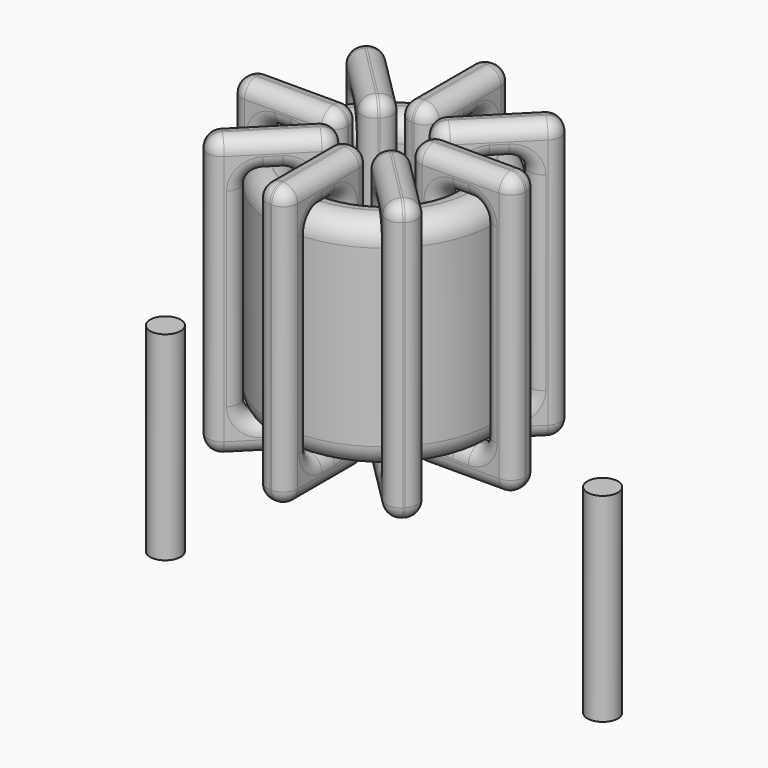
from build123d import *

# Parameters (mm, degrees)
SKETCH001_R       = 0.35
PAD001_DEPTH      = 0.35
PAD001_DEPTH_BACK = 4.2
SKETCH_R          = 2.5385
SKETCH_R_2        = 1.524
PAD_DEPTH         = 5
FILLET_R          = 0.5
SKETCH003_W       = 2.4145
SKETCH003_H       = 6.4
SKETCH003_W_2     = 1.0145
SKETCH003_H_2     = 5
PAD002_DEPTH      = 0.35
FILLET001_R       = 0.329
SKETCH004_W       = 2.4145
SKETCH004_H       = 6.4
SKETCH004_W_2     = 1.0145
SKETCH004_H_2     = 5
PAD003_DEPTH      = 0.35
FILLET002_R       = 0.329
SKETCH005_W       = 2.4145
SKETCH005_H       = 6.4
SKETCH005_W_2     = 1.0145
SKETCH005_H_2     = 5
PAD004_DEPTH      = 0.35
FILLET003_R       = 0.329
SKETCH006_W       = 2.4145
SKETCH006_H       = 6.4
SKETCH006_W_2     = 1.0145
SKETCH006_H_2     = 5
PAD005_DEPTH      = 0.35
FILLET004_R       = 0.329


with BuildPart() as pad001:
    # Sketch001 → Pad001 (new body, two sides)
    with BuildSketch(Plane.XY.offset(0.85)) as pad001_sk:
        Circle(SKETCH001_R)
        with Locations((10, 0)):
            Circle(SKETCH001_R)
    extrude(amount=PAD001_DEPTH)
    extrude(pad001_sk.sketch, amount=-PAD001_DEPTH_BACK)


with BuildPart() as fillet_body:
    # Sketch → Pad (new body)
    with BuildSketch(Plane.XY.offset(1.2)):
        with Locations((5, 0)):
            Circle(SKETCH_R)
        with Locations((5, 0)):
            Circle(SKETCH_R_2, mode=Mode.SUBTRACT)
    extrude(amount=PAD_DEPTH)

    # Fillet
    fillet_edges = [fillet_body.edges().sort_by_distance(p)[0] for p in [
        (3.476, 0, 6.2),
        (2.4615, 0, 6.2),
        (2.4615, 0, 1.2),
    ]]
    fillet(fillet_edges, radius=FILLET_R)


with BuildPart() as fillet001:
    # Sketch003 → Pad002 (new body, symmetric)
    with BuildSketch(Plane(origin=(5, 0, 0), x_dir=(1, 0, 0), z_dir=(0, -1, 0))):
        with Locations((-2.03125, 3.7)):
            Rectangle(SKETCH003_W, SKETCH003_H)
        with Locations((-2.03125, 3.7)):
            Rectangle(SKETCH003_W_2, SKETCH003_H_2, mode=Mode.SUBTRACT)
        with Locations((2.03125, 3.7)):
            Rectangle(SKETCH003_W, SKETCH003_H)
        with Locations((2.03125, 3.7)):
            Rectangle(SKETCH003_W_2, SKETCH003_H_2, mode=Mode.SUBTRACT)
    extrude(amount=PAD002_DEPTH, both=True)

    # Fillet001
    fillet001_edges = [fillet001.edges().sort_by_distance(p)[0] for p in [
        (3.476, 0, 6.2),
        (3.476, 0, 1.2),
        (3.476, 0.35, 3.7),
        (3.476, -0.35, 3.7),
        (1.7615, 0, 6.9),
        (4.176, 0, 6.9),
        (2.96875, 0.35, 6.9),
        (2.96875, -0.35, 6.9),
        (4.176, 0, 0.5),
        (4.176, 0.35, 3.7),
        (4.176, -0.35, 3.7),
        (6.524, 0, 6.2),
        (7.5385, 0, 6.2),
        (7.03125, 0.35, 6.2),
        (7.03125, -0.35, 6.2),
        (7.5385, 0, 1.2),
        (7.5385, 0.35, 3.7),
        (7.5385, -0.35, 3.7),
        (5.824, 0, 6.9),
        (8.2385, 0, 6.9),
        (7.03125, 0.35, 6.9),
        (7.03125, -0.35, 6.9),
        (8.2385, 0, 0.5),
        (8.2385, 0.35, 3.7),
        (8.2385, -0.35, 3.7),
        (2.4615, 0, 6.2),
        (2.96875, 0.35, 6.2),
        (2.96875, -0.35, 6.2),
        (6.524, 0, 1.2),
        (6.524, 0.35, 3.7),
        (6.524, -0.35, 3.7),
        (7.03125, 0.35, 1.2),
        (7.03125, -0.35, 1.2),
        (5.824, 0, 0.5),
        (7.03125, 0.35, 0.5),
        (7.03125, -0.35, 0.5),
        (5.824, 0.35, 3.7),
        (5.824, -0.35, 3.7),
        (1.7615, 0, 0.5),
        (2.96875, 0.35, 0.5),
        (2.96875, -0.35, 0.5),
        (1.7615, 0.35, 3.7),
        (1.7615, -0.35, 3.7),
        (2.4615, 0, 1.2),
        (2.4615, 0.35, 3.7),
        (2.4615, -0.35, 3.7),
        (2.96875, 0.35, 1.2),
        (2.96875, -0.35, 1.2),
    ]]
    fillet(fillet001_edges, radius=FILLET001_R)


with BuildPart() as fillet002:
    # Sketch004 → Pad003 (new body, symmetric)
    with BuildSketch(Plane(origin=(5, 0, 0), x_dir=(0.707107, 0.707107, 0), z_dir=(0.707107, -0.707107, 0))):
        with Locations((-2.03125, 3.7)):
            Rectangle(SKETCH004_W, SKETCH004_H)
        with Locations((-2.03125, 3.7)):
            Rectangle(SKETCH004_W_2, SKETCH004_H_2, mode=Mode.SUBTRACT)
        with Locations((2.03125, 3.7)):
            Rectangle(SKETCH004_W, SKETCH004_H)
        with Locations((2.03125, 3.7)):
            Rectangle(SKETCH004_W_2, SKETCH004_H_2, mode=Mode.SUBTRACT)
    extrude(amount=PAD003_DEPTH, both=True)

    # Fillet002
    fillet002_edges = [fillet002.edges().sort_by_distance(p)[0] for p in [
        (3.922369, -1.077631, 6.2),
        (3.922369, -1.077631, 1.2),
        (3.674882, -0.830143, 3.7),
        (4.169857, -1.325118, 3.7),
        (2.710035, -2.289965, 6.9),
        (4.417344, -0.582656, 6.9),
        (3.316202, -1.188823, 6.9),
        (3.811177, -1.683798, 6.9),
        (4.417344, -0.582656, 0.5),
        (4.169857, -0.335169, 3.7),
        (4.664831, -0.830143, 3.7),
        (6.077631, 1.077631, 6.2),
        (6.794991, 1.794991, 6.2),
        (6.188823, 1.683798, 6.2),
        (6.683798, 1.188823, 6.2),
        (6.794991, 1.794991, 1.2),
        (6.547503, 2.042478, 3.7),
        (7.042478, 1.547503, 3.7),
        (5.582656, 0.582656, 6.9),
        (7.289965, 2.289965, 6.9),
        (6.188823, 1.683798, 6.9),
        (6.683798, 1.188823, 6.9),
        (7.289965, 2.289965, 0.5),
        (7.042478, 2.537453, 3.7),
        (7.537453, 2.042478, 3.7),
        (3.205009, -1.794991, 6.2),
        (3.316202, -1.188823, 6.2),
        (3.811177, -1.683798, 6.2),
        (6.077631, 1.077631, 1.2),
        (5.830143, 1.325118, 3.7),
        (6.325118, 0.830143, 3.7),
        (6.188823, 1.683798, 1.2),
        (6.683798, 1.188823, 1.2),
        (5.582656, 0.582656, 0.5),
        (6.188823, 1.683798, 0.5),
        (6.683798, 1.188823, 0.5),
        (5.335169, 0.830143, 3.7),
        (5.830143, 0.335169, 3.7),
        (2.710035, -2.289965, 0.5),
        (3.316202, -1.188823, 0.5),
        (3.811177, -1.683798, 0.5),
        (2.462547, -2.042478, 3.7),
        (2.957522, -2.537453, 3.7),
        (3.205009, -1.794991, 1.2),
        (2.957522, -1.547503, 3.7),
        (3.452497, -2.042478, 3.7),
        (3.316202, -1.188823, 1.2),
        (3.811177, -1.683798, 1.2),
    ]]
    fillet(fillet002_edges, radius=FILLET002_R)


with BuildPart() as fillet003:
    # Sketch005 → Pad004 (new body, symmetric)
    with BuildSketch(Plane(origin=(5, 0, 0), x_dir=(0.707107, -0.707107, 0), z_dir=(-0.707107, -0.707107, 0))):
        with Locations((-2.03125, 3.7)):
            Rectangle(SKETCH005_W, SKETCH005_H)
        with Locations((-2.03125, 3.7)):
            Rectangle(SKETCH005_W_2, SKETCH005_H_2, mode=Mode.SUBTRACT)
        with Locations((2.03125, 3.7)):
            Rectangle(SKETCH005_W, SKETCH005_H)
        with Locations((2.03125, 3.7)):
            Rectangle(SKETCH005_W_2, SKETCH005_H_2, mode=Mode.SUBTRACT)
    extrude(amount=PAD004_DEPTH, both=True)

    # Fillet003
    fillet003_edges = [fillet003.edges().sort_by_distance(p)[0] for p in [
        (3.922369, 1.077631, 6.2),
        (3.922369, 1.077631, 1.2),
        (4.169857, 1.325118, 3.7),
        (3.674882, 0.830143, 3.7),
        (2.710035, 2.289965, 6.9),
        (4.417344, 0.582656, 6.9),
        (3.811177, 1.683798, 6.9),
        (3.316202, 1.188823, 6.9),
        (4.417344, 0.582656, 0.5),
        (4.664831, 0.830143, 3.7),
        (4.169857, 0.335169, 3.7),
        (6.077631, -1.077631, 6.2),
        (6.794991, -1.794991, 6.2),
        (6.683798, -1.188823, 6.2),
        (6.188823, -1.683798, 6.2),
        (6.794991, -1.794991, 1.2),
        (7.042478, -1.547503, 3.7),
        (6.547503, -2.042478, 3.7),
        (5.582656, -0.582656, 6.9),
        (7.289965, -2.289965, 6.9),
        (6.683798, -1.188823, 6.9),
        (6.188823, -1.683798, 6.9),
        (7.289965, -2.289965, 0.5),
        (7.537453, -2.042478, 3.7),
        (7.042478, -2.537453, 3.7),
        (3.205009, 1.794991, 6.2),
        (3.811177, 1.683798, 6.2),
        (3.316202, 1.188823, 6.2),
        (6.077631, -1.077631, 1.2),
        (6.325118, -0.830143, 3.7),
        (5.830143, -1.325118, 3.7),
        (6.683798, -1.188823, 1.2),
        (6.188823, -1.683798, 1.2),
        (5.582656, -0.582656, 0.5),
        (6.683798, -1.188823, 0.5),
        (6.188823, -1.683798, 0.5),
        (5.830143, -0.335169, 3.7),
        (5.335169, -0.830143, 3.7),
        (2.710035, 2.289965, 0.5),
        (3.811177, 1.683798, 0.5),
        (3.316202, 1.188823, 0.5),
        (2.957522, 2.537453, 3.7),
        (2.462547, 2.042478, 3.7),
        (3.205009, 1.794991, 1.2),
        (3.452497, 2.042478, 3.7),
        (2.957522, 1.547503, 3.7),
        (3.811177, 1.683798, 1.2),
        (3.316202, 1.188823, 1.2),
    ]]
    fillet(fillet003_edges, radius=FILLET003_R)


with BuildPart() as fillet004:
    # Sketch006 → Pad005 (new body, symmetric)
    with BuildSketch(Plane.YZ.offset(5)):
        with Locations((-2.03125, 3.7)):
            Rectangle(SKETCH006_W, SKETCH006_H)
        with Locations((-2.03125, 3.7)):
            Rectangle(SKETCH006_W_2, SKETCH006_H_2, mode=Mode.SUBTRACT)
        with Locations((2.03125, 3.7)):
            Rectangle(SKETCH006_W, SKETCH006_H)
        with Locations((2.03125, 3.7)):
            Rectangle(SKETCH006_W_2, SKETCH006_H_2, mode=Mode.SUBTRACT)
    extrude(amount=PAD005_DEPTH, both=True)

    # Fillet004
    fillet004_edges = [fillet004.edges().sort_by_distance(p)[0] for p in [
        (5, -1.524, 6.2),
        (5, -1.524, 1.2),
        (4.65, -1.524, 3.7),
        (5.35, -1.524, 3.7),
        (5, -3.2385, 6.9),
        (5, -0.824, 6.9),
        (4.65, -2.03125, 6.9),
        (5.35, -2.03125, 6.9),
        (5, -0.824, 0.5),
        (4.65, -0.824, 3.7),
        (5.35, -0.824, 3.7),
        (5, 1.524, 6.2),
        (5, 2.5385, 6.2),
        (4.65, 2.03125, 6.2),
        (5.35, 2.03125, 6.2),
        (5, 2.5385, 1.2),
        (4.65, 2.5385, 3.7),
        (5.35, 2.5385, 3.7),
        (5, 0.824, 6.9),
        (5, 3.2385, 6.9),
        (4.65, 2.03125, 6.9),
        (5.35, 2.03125, 6.9),
        (5, 3.2385, 0.5),
        (4.65, 3.2385, 3.7),
        (5.35, 3.2385, 3.7),
        (5, -2.5385, 6.2),
        (4.65, -2.03125, 6.2),
        (5.35, -2.03125, 6.2),
        (5, 1.524, 1.2),
        (4.65, 1.524, 3.7),
        (5.35, 1.524, 3.7),
        (4.65, 2.03125, 1.2),
        (5.35, 2.03125, 1.2),
        (5, 0.824, 0.5),
        (4.65, 2.03125, 0.5),
        (5.35, 2.03125, 0.5),
        (4.65, 0.824, 3.7),
        (5.35, 0.824, 3.7),
        (5, -3.2385, 0.5),
        (4.65, -2.03125, 0.5),
        (5.35, -2.03125, 0.5),
        (4.65, -3.2385, 3.7),
        (5.35, -3.2385, 3.7),
        (5, -2.5385, 1.2),
        (4.65, -2.5385, 3.7),
        (5.35, -2.5385, 3.7),
        (4.65, -2.03125, 1.2),
        (5.35, -2.03125, 1.2),
    ]]
    fillet(fillet004_edges, radius=FILLET004_R)


solid = Compound([pad001.part, fillet_body.part, fillet001.part, fillet002.part, fillet003.part, fillet004.part])
